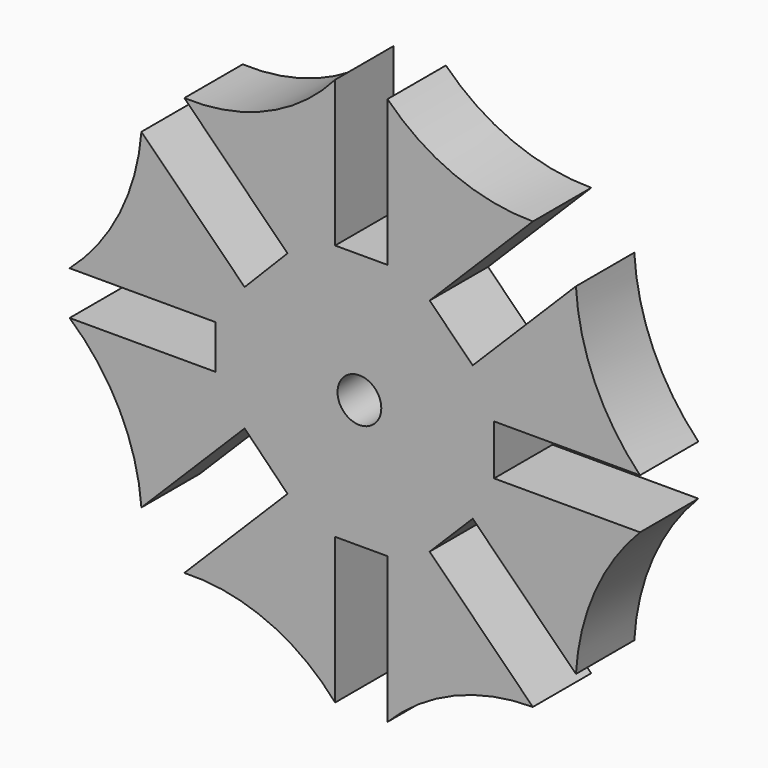
from build123d import *

# Parameters (mm, degrees)
F0_R     = 3.81
F1_DEPTH = 12.7


with BuildPart() as f1:
    # F0 (on Front) → F1 (new body)
    with BuildSketch(Plane.XZ):
        with BuildLine():
            ThreePointArc((-4.229794, 47.718242), (-16.061198, 39.061167), (-30.475451, 36.386032))
            Line((-30.475451, 36.386032), (-12.514939, 18.42552))
            Line((-12.514939, 18.42552), (-19.982375, 10.825849))
            Line((-19.982375, 10.825849), (-37.942887, 28.786362))
            ThreePointArc((-37.942887, 28.786362), (-41.742274, 15.072138), (-50.441671, 3.81))
            Line((-50.441671, 3.81), (-25.041671, 3.81))
            Line((-25.041671, 3.81), (-25.041671, 0))
            Line((-25.041671, 0), (-25.041671, -3.81))
            Line((-25.041671, -3.81), (-48.257879, -3.81))
            Line((-48.257879, -3.81), (-50.441671, -3.81))
            ThreePointArc((-50.441671, -3.81), (-41.742274, -15.072138), (-37.942887, -28.786362))
            Line((-37.942887, -28.786362), (-37.125781, -27.969256))
            Line((-37.125781, -27.969256), (-19.982375, -10.825849))
            Line((-19.982375, -10.825849), (-15.444293, -15.444293))
            Line((-15.444293, -15.444293), (-12.514939, -18.42552))
            Line((-12.514939, -18.42552), (-30.475451, -36.386032))
            ThreePointArc((-30.475451, -36.386032), (-16.061198, -39.061167), (-4.229794, -47.718242))
            Line((-4.229794, -47.718242), (-4.229794, -22.318242))
            Line((-4.229794, -22.318242), (4.890546, -22.318242))
            Line((4.890546, -22.318242), (4.890546, -47.718242))
            ThreePointArc((4.890546, -47.718242), (16.488249, -39.925771), (30.192203, -37.199796))
            Line((30.192203, -37.199796), (12.231691, -19.239284))
            Line((12.231691, -19.239284), (19.726951, -11.744024))
            Line((19.726951, -11.744024), (37.687463, -29.704536))
            ThreePointArc((37.687463, -29.704536), (40.977102, -16.028187), (48.843854, -4.367207))
            Line((48.843854, -4.367207), (23.443854, -4.367207))
            Line((23.443854, -4.367207), (23.443854, 0))
            Line((23.443854, 0), (23.443854, 4.367207))
            Line((23.443854, 4.367207), (48.843854, 4.367207))
            ThreePointArc((48.843854, 4.367207), (40.977102, 16.028187), (37.687463, 29.704536))
            Line((37.687463, 29.704536), (19.726951, 11.744024))
            Line((19.726951, 11.744024), (12.231691, 19.239284))
            Line((12.231691, 19.239284), (30.192203, 37.199796))
            ThreePointArc((30.192203, 37.199796), (16.488249, 39.925771), (4.890546, 47.718242))
            Line((4.890546, 47.718242), (4.890546, 22.318242))
            Line((4.890546, 22.318242), (-4.229794, 22.318242))
            Line((-4.229794, 22.318242), (-4.229794, 47.718242))
        make_face()
        Circle(F0_R, mode=Mode.SUBTRACT)
    extrude(amount=-F1_DEPTH)


solid = f1.part
